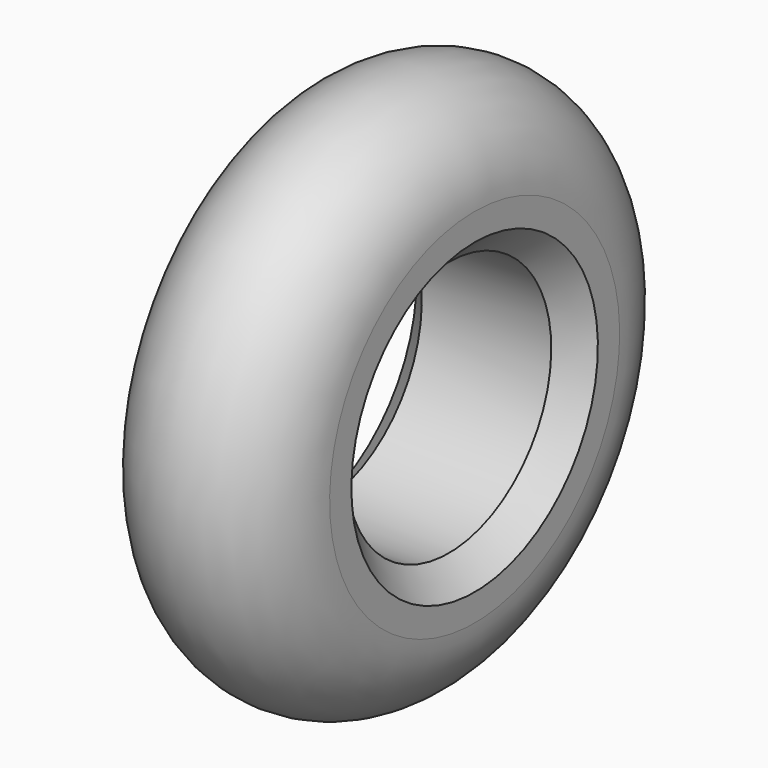
from build123d import *

# Parameters (mm, degrees)
F2_SIZE = 1


with BuildPart() as f1:
    # F0 (on Front) → F1 (revolve)
    with BuildSketch(Plane.XZ):
        with BuildLine():
            Line((-3.5, 7), (-3.5, 4.95))
            Line((-3.5, 4.95), (3.5, 4.95))
            Line((3.5, 4.95), (3.5, 7))
            ThreePointArc((3.5, 7), (0, 10.5), (-3.5, 7))
        make_face()
    revolve(axis=Axis((0, 0, 0), (1, 0, 0)))

    # F2
    f2_edges = [f1.edges().sort_by_distance(p)[0] for p in [
        (3.5, 0, -4.95),
        (-3.5, 0, -4.95),
    ]]
    chamfer(f2_edges, length=F2_SIZE)


solid = f1.part
